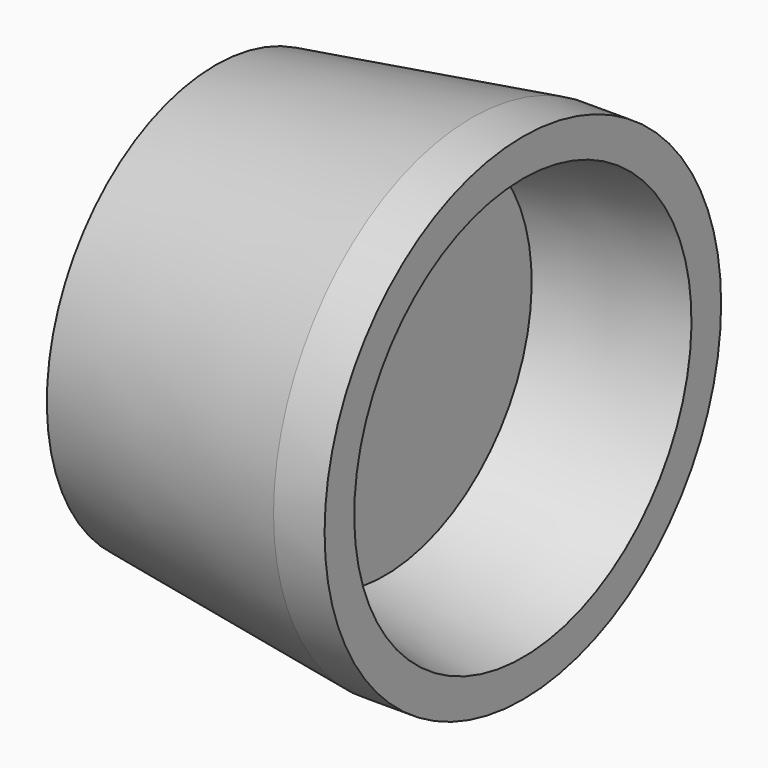
from build123d import *


with BuildPart() as f1:
    # F0 (on Front) → F1 (revolve)
    with BuildSketch(Plane.XZ):
        Polygon((0, 12.978721), (0, 0), (23.66708, 0), (23.66708, 56.037541), (65.809757, 64.282842), (65.809757, 75.581968), (50.235286, 75.581968), (-27.942425, 64.282842), (-27.942425, 56.037541), (0, 56.037541), (0, 47.486853), (-27.942425, 47.486853), (-27.942425, 39.546926), (0, 39.546926), (0, 30.080097), (-6.565706, 30.080097), (-6.565706, 21.224026), (-31.301621, 21.224026), (-31.301621, 12.978721), align=None)
    revolve(axis=Axis((11.83354, 0, 0), (-1, 0, 0)))


solid = f1.part
